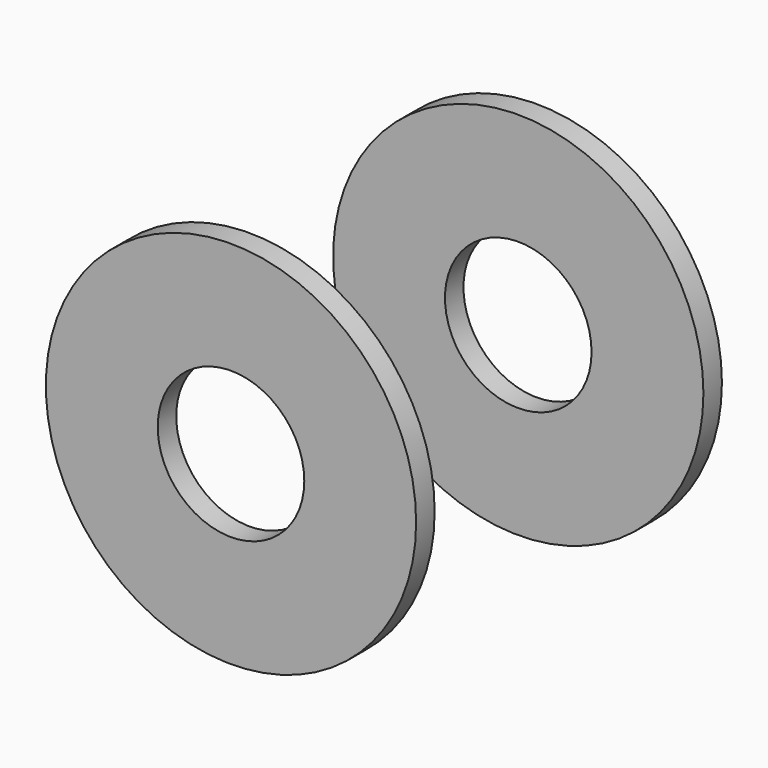
from build123d import *

# Parameters (mm, degrees)
F0_R     = 24
F0_R_2   = 9.5
F1_DEPTH = 3


with BuildPart() as f1:
    # F0 (on Front) → F1 (new body)
    with BuildSketch(Plane.XZ):
        Circle(F0_R)
        Circle(F0_R_2, mode=Mode.SUBTRACT)
    extrude(amount=F1_DEPTH)


with BuildPart() as f2_1:
    # F2: copy of F1
    add(f1.part)


with BuildPart() as f4_1:
    # F4: copy of F1
    add(f1.part.moved(Location((0, 46.54676, -4.20421))))


solid = Compound([f1.part, f4_1.part])
